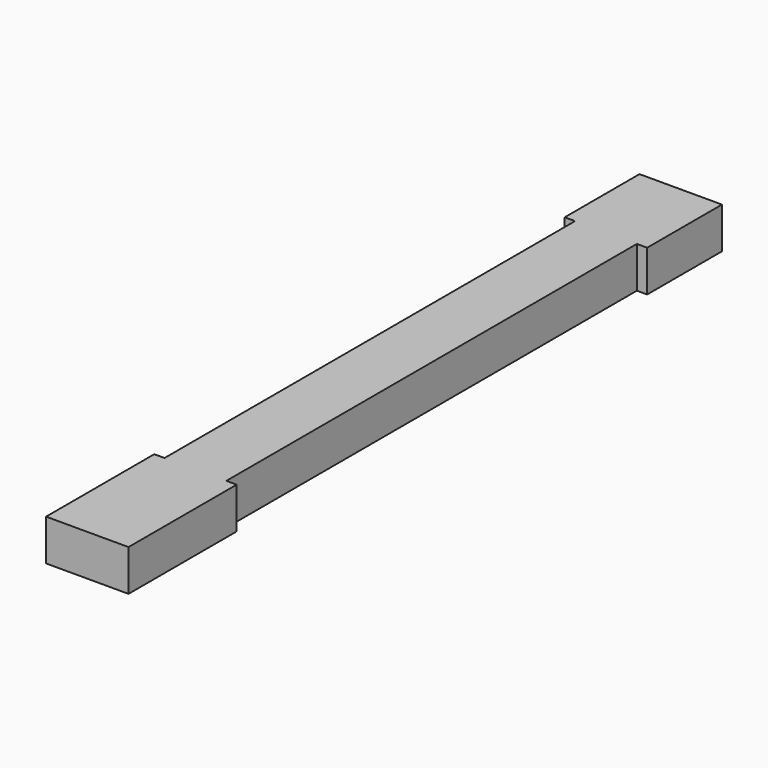
from build123d import *

# Parameters (mm, degrees)
F1_DEPTH = 6.35


with BuildPart() as f1:
    # F0 (on Top) → F1 (new body)
    with BuildSketch(Plane.XY):
        Polygon((6.35, 42.7482), (6.35, 57.15), (0, 57.15), (0, -57.15), (5.5118, -57.15), (6.35, -57.15), (6.35, -56.3118), (6.35, -36.319384), (4.7625, -36.319384), (4.7625, 21.265617), (4.7625, 42.7482), align=None)
        Polygon((0, -57.15), (0, 57.15), (-6.35, 57.15), (-6.35, 42.7482), (-4.7625, 42.7482), (-4.7625, -36.319384), (-6.35, -36.319384), (-6.35, -56.3118), (-6.35, -57.15), align=None)
    extrude(amount=F1_DEPTH)


solid = f1.part
